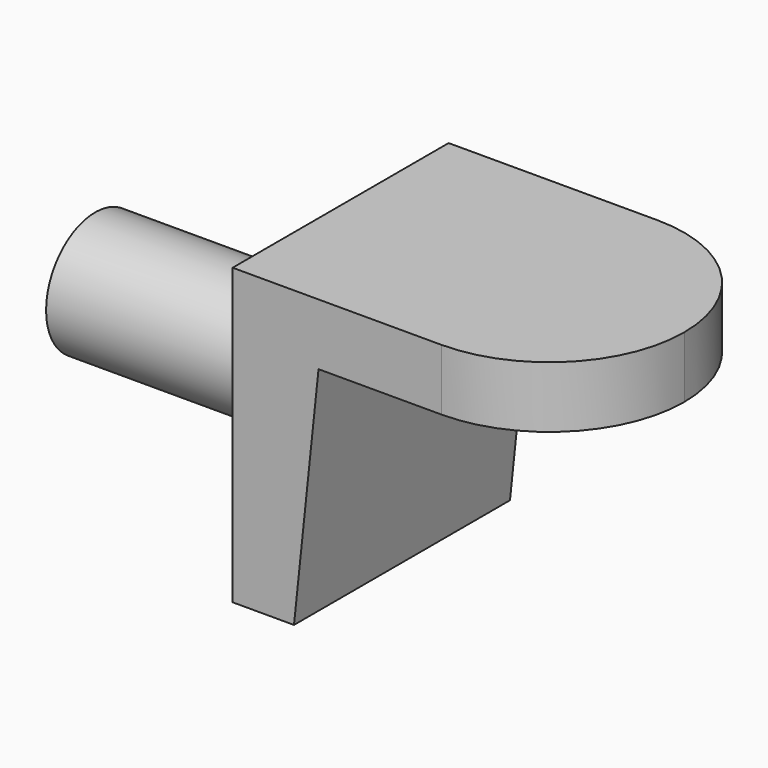
from build123d import *

# Parameters (mm, degrees)
F1_DEPTH = 11
F4_DEPTH = 12.001
F5_R     = 2.5
F6_DEPTH = 10


with BuildPart() as f1:
    # F0 (on Front) → F1 (new body)
    with BuildSketch(Plane.XZ):
        Polygon((14, 0), (0, 0), (0, -12), (2.5, -12), (3.5, -2.5), (14, -2.5), align=None)
    extrude(amount=F1_DEPTH)


with BuildPart() as f1_1:
    # F2: moved
    add(f1.part.moved(Location((0, 5.5, 0))))

    # F3 (on face) → F4 (cut, through all)
    with BuildSketch(Plane.XY):
        with BuildLine():
            ThreePointArc((8.5, 5.5), (12.3890872965, 3.8890872965), (14, 0))
            Line((14, 0), (14, 5.5))
            Line((14, 5.5), (8.5, 5.5))
        make_face()
        with BuildLine():
            ThreePointArc((14, 0), (12.3890872965, -3.8890872965), (8.5, -5.5))
            Line((8.5, -5.5), (14, -5.5))
            Line((14, -5.5), (14, 0))
        make_face()
    extrude(amount=-F4_DEPTH, mode=Mode.SUBTRACT)

    # F5 (on face) → F6 (join)
    with BuildSketch(Plane(origin=(0, 0, 0), x_dir=(0, -1, 0), z_dir=(-1, 0, 0))):
        with Locations((0, -6)):
            Circle(F5_R)
    extrude(amount=F6_DEPTH)


solid = f1_1.part
